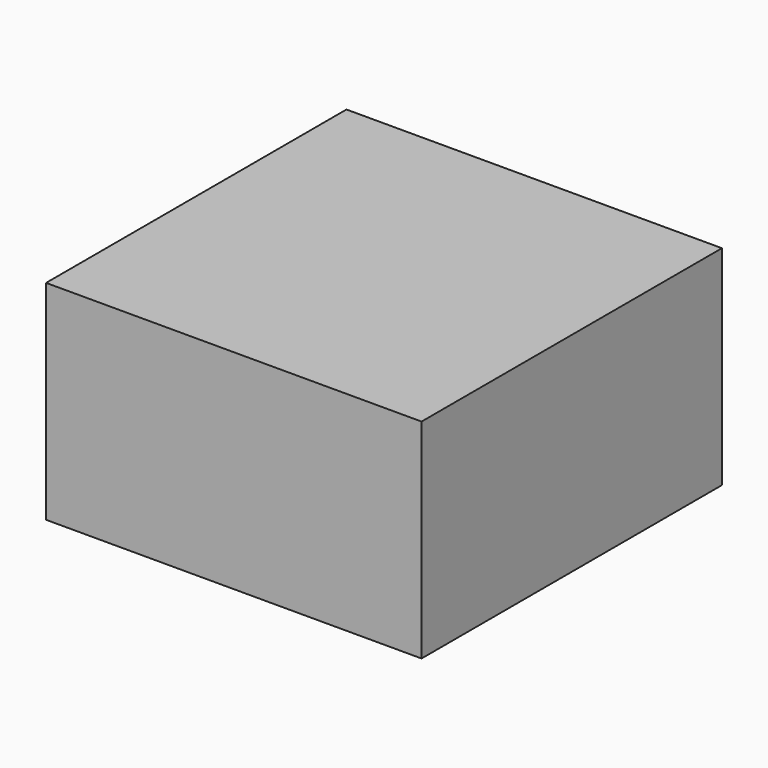
from build123d import *

# Parameters (mm, degrees)
F0_W     = 54
F0_H     = 54
F0_W_2   = 50
F0_H_2   = 50
F1_DEPTH = 2
F2_DEPTH = 30
F3_R     = 10
F4_DEPTH = 2
F6_DEPTH = 2
F7_R     = 1


with BuildPart() as f1:
    # F0 (on Top) → F1 (new body)
    with BuildSketch(Plane.XY):
        Rectangle(F0_W, F0_H)
        Rectangle(F0_W_2, F0_H_2, mode=Mode.SUBTRACT)
        Rectangle(F0_W_2, F0_H_2)
    extrude(amount=-F1_DEPTH)

    # F0 (on Top) → F2 (join)
    with BuildSketch(Plane.XY):
        Rectangle(F0_W, F0_H)
        Rectangle(F0_W_2, F0_H_2, mode=Mode.SUBTRACT)
    extrude(amount=-F2_DEPTH)

    # F3 (on face) → F4 (cut, through all)
    with BuildSketch(Plane(origin=(0, 27, 0), x_dir=(-1, 0, 0), z_dir=(0, 1, 0))):
        with Locations((0, -15)):
            Circle(F3_R)
    extrude(amount=-F4_DEPTH, mode=Mode.SUBTRACT)

    # F5 (on face) → F6 (join)
    with BuildSketch(Plane(origin=(0, 0, -2), x_dir=(1, 0, 0), z_dir=(0, 0, -1))):
        with BuildLine():
            Line((-7.5, -17), (-7.5, -25))
            Line((-7.5, -25), (7.5, -25))
            Line((7.5, -25), (7.5, -17))
            ThreePointArc((7.5, -17), (6.9142135624, -15.5857864376), (5.5, -15))
            Line((5.5, -15), (-5.5, -15))
            ThreePointArc((-5.5, -15), (-6.9142135624, -15.5857864376), (-7.5, -17))
        make_face()
    extrude(amount=F6_DEPTH)

    # F7
    f7_edges = [f1.edges().sort_by_distance(p)[0] for p in [
        (-7.5, 21, -4),
        (-6.914214, 15.585786, -4),
        (0, 15, -4),
        (6.914214, 15.585786, -4),
        (7.5, 21, -4),
    ]]
    fillet(f7_edges, radius=F7_R)


solid = f1.part
